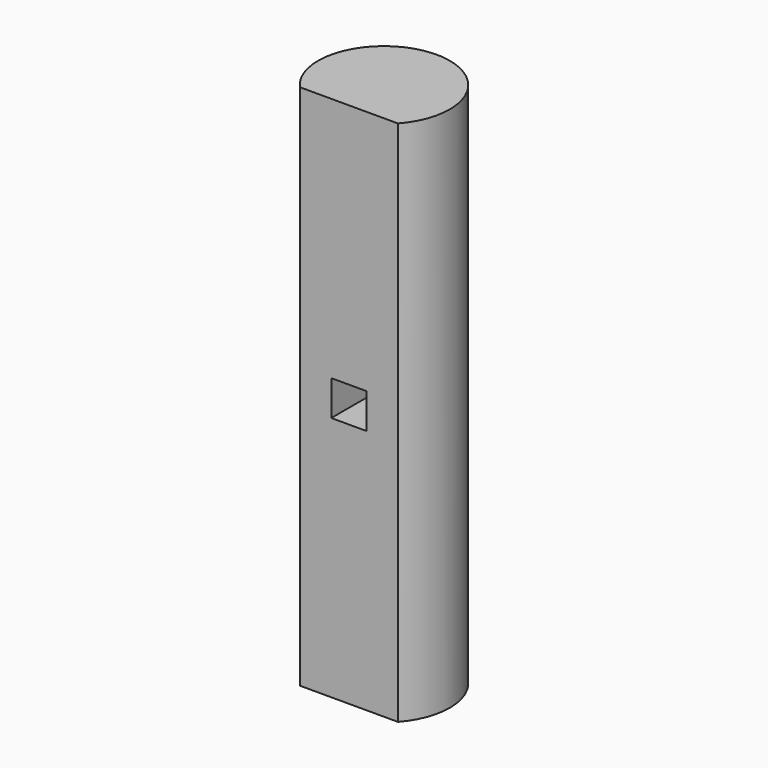
from build123d import *

# Parameters (mm, degrees)
F1_DEPTH = 60
F2_W     = 4
F2_H     = 4
F3_DEPTH = 10


with BuildPart() as f1:
    # F0 (on Top) → F1 (new body)
    with BuildSketch(Plane.XY):
        with BuildLine():
            Line((-5.59017, -5), (5.59017, -5))
            ThreePointArc((5.59017, -5), (0, 7.5), (-5.59017, -5))
        make_face()
    extrude(amount=F1_DEPTH)

    # F2 (on Front) → F3 (cut, symmetric)
    with BuildSketch(Plane.XZ):
        with Locations((0, 30)):
            Rectangle(F2_W, F2_H)
    extrude(amount=F3_DEPTH, both=True, mode=Mode.SUBTRACT)


solid = f1.part
